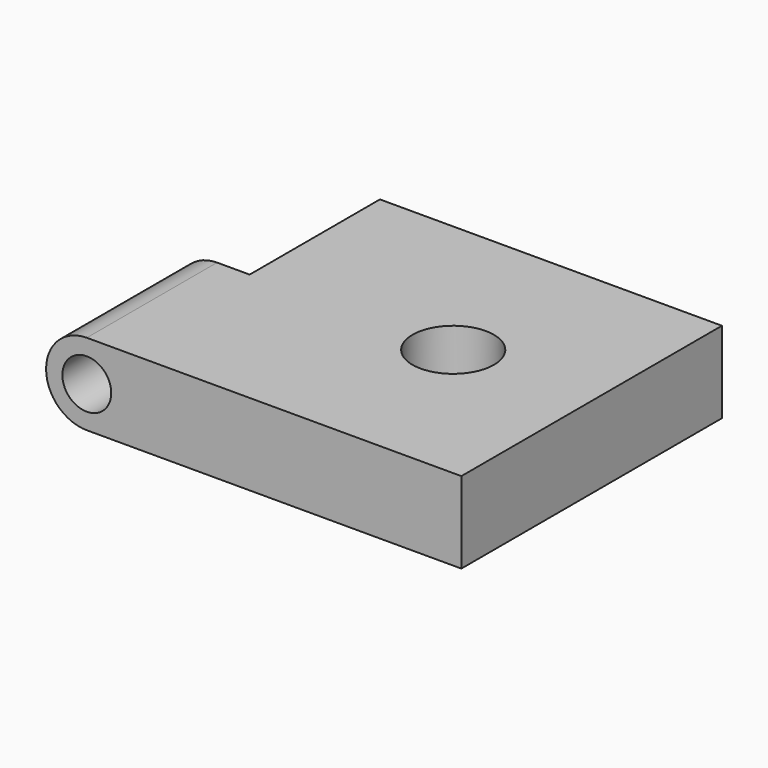
from build123d import *

# Parameters (mm, degrees)
F0_W     = 26.67
F0_H     = 25.4
F0_R     = 3.175
F1_DEPTH = 6.35
F2_R     = 1.905
F3_DEPTH = 12.7


with BuildPart() as f1:
    # F0 (on Top) → F1 (new body)
    with BuildSketch(Plane.XY):
        with Locations((13.335, 12.7)):
            Rectangle(F0_W, F0_H)
        with Locations((15.875, 12.7)):
            Circle(F0_R, mode=Mode.SUBTRACT)
    extrude(amount=F1_DEPTH)

    # F2 (on face) → F3 (join)
    with BuildSketch(Plane.XZ):
        with BuildLine():
            Line((0, 0), (0, 6.35))
            Line((0, 6.35), (-2.54, 6.35))
            ThreePointArc((-2.54, 6.35), (-5.715, 3.175), (-2.54, 0))
            Line((-2.54, 0), (0, 0))
        make_face()
        with Locations((-2.54, 3.175)):
            Circle(F2_R, mode=Mode.SUBTRACT)
    extrude(amount=-F3_DEPTH)


solid = f1.part
